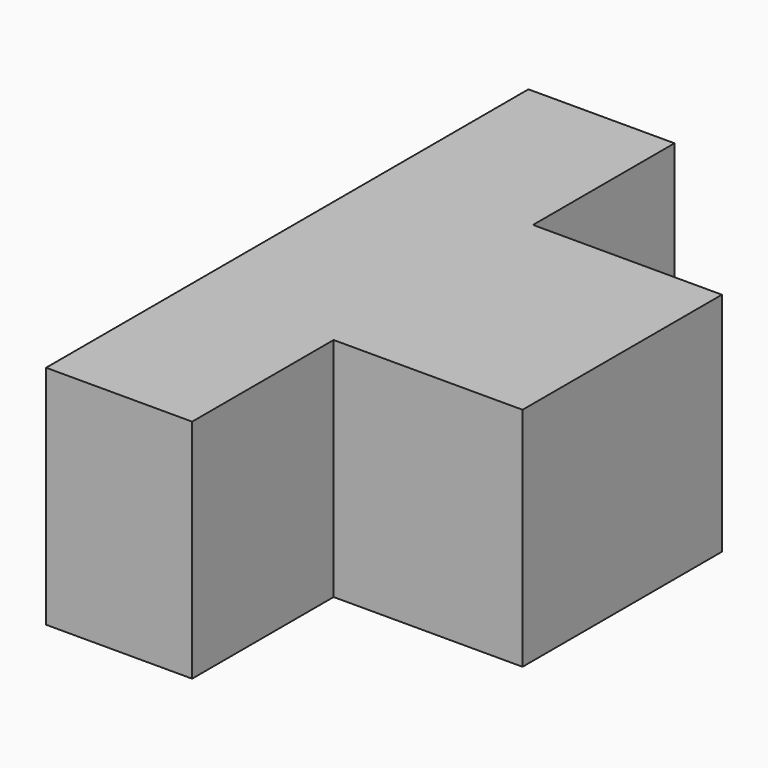
from build123d import *

# Parameters (mm, degrees)
F1_DEPTH = 25.4
F2_SCALE = 84


with BuildPart() as f1:
    # F0 (on Top) → F1 (new body)
    with BuildSketch(Plane.XY):
        Polygon((21.2056599557, 13.9867123216), (0, 13.9867123216), (0, 33.8388159871), (-16.3930244744, 33.8388159871), (-16.3930244744, 0), (-16.3930244744, -33.8388159871), (0, -33.8388159871), (0, -13.9867123216), (21.2056599557, -13.9867123216), align=None)
    extrude(amount=F1_DEPTH)


with BuildPart() as f1_1:
    # F2: moved
    add(f1.part.scale(F2_SCALE))


solid = f1_1.part
